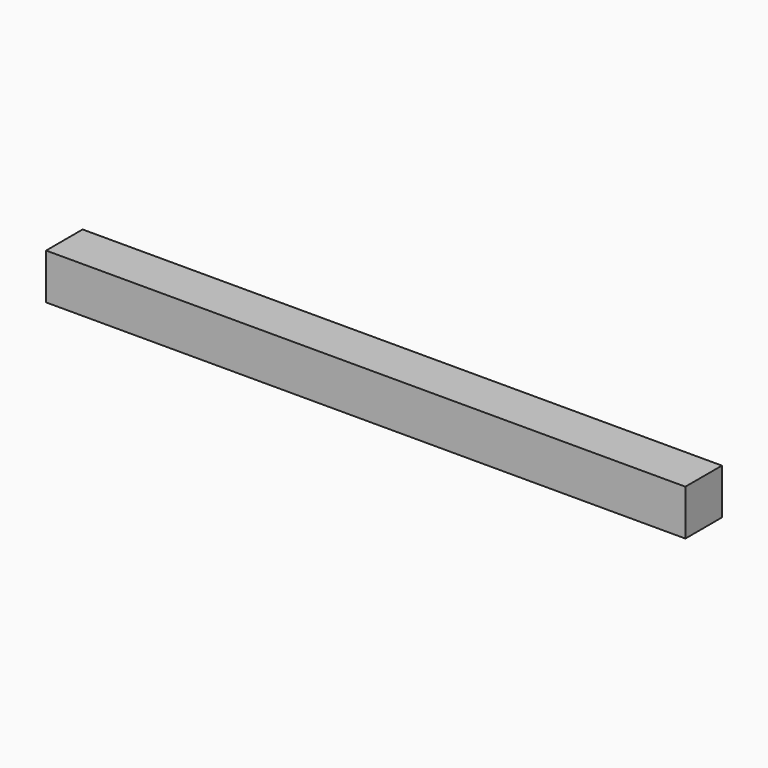
from build123d import *

# Parameters (mm, degrees)
BEAM_W     = 140
BEAM_H     = 10
BEAM_DEPTH = 10


with BuildPart() as part:
    # Beam → Beam (new body)
    with BuildSketch(Plane.XY):
        with Locations((70, 5)):
            Rectangle(BEAM_W, BEAM_H)
    extrude(amount=BEAM_DEPTH)


solid = part.part
